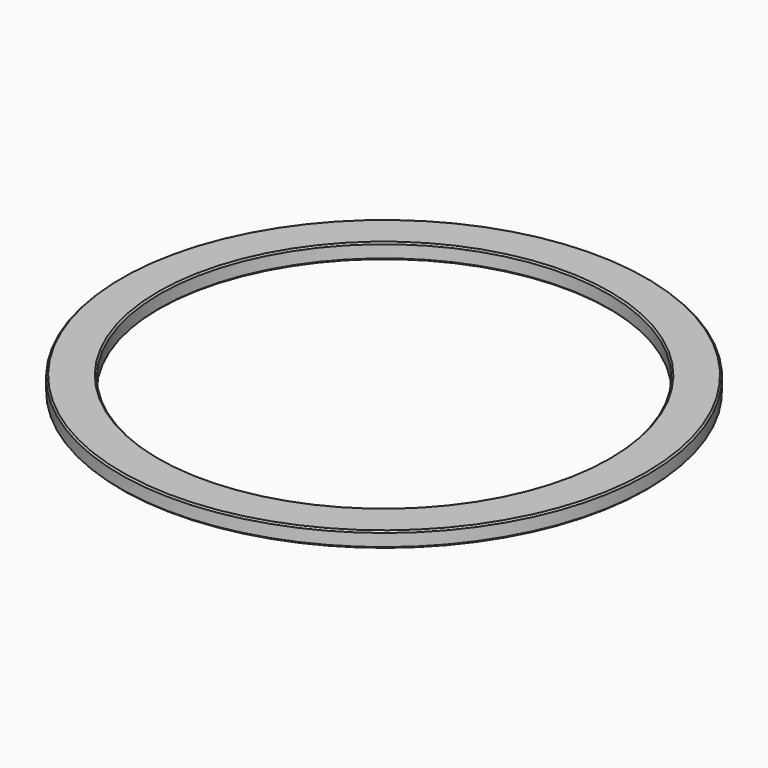
from build123d import *

# Parameters (mm, degrees)
F0_R     = 17
F0_R_2   = 16
F0_R_3   = 14.45
F1_DEPTH = 0.5
F2_SIZE  = 0.1
F4_SIZE  = 0.1


with BuildPart() as f1:
    # F0 (on Top) → F1 (new body, symmetric)
    with BuildSketch(Plane.XY):
        Circle(F0_R)
        Circle(F0_R_2, mode=Mode.SUBTRACT)
        Circle(F0_R_2)
        Circle(F0_R_3, mode=Mode.SUBTRACT)
    extrude(amount=F1_DEPTH, both=True)

    # F2
    f2_edges = [f1.edges().sort_by_distance(p)[0] for p in [
        (-17, 0, 0.5),
        (-17, 0, -0.5),
    ]]
    chamfer(f2_edges, length=F2_SIZE)

    # F4
    f4_edges = [f1.edges().sort_by_distance(p)[0] for p in [
        (-14.45, 0, 0.5),
        (-14.45, 0, -0.5),
    ]]
    chamfer(f4_edges, length=F4_SIZE)


solid = f1.part
